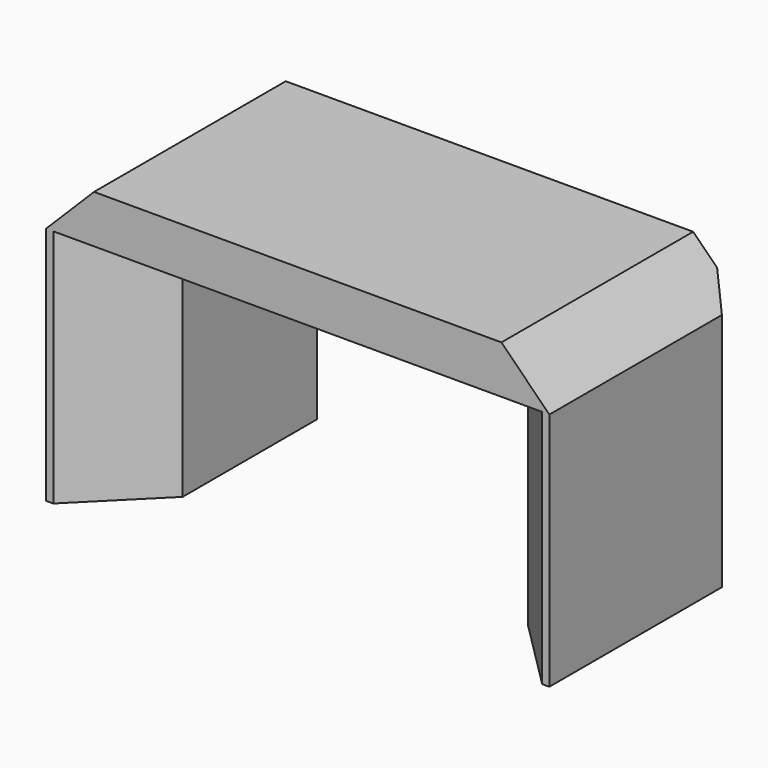
from build123d import *

# Parameters (mm, degrees)
CYLINDER1709_R     = 1.5
CYLINDER1709_DEPTH = 60
CYLINDER1710_R     = 1.5
CYLINDER1710_DEPTH = 60
CYLINDER1702_R     = 1.5
CYLINDER1702_DEPTH = 60
CYLINDER1706_R     = 1.5
CYLINDER1706_DEPTH = 60
CYLINDER1703_R     = 2.5
CYLINDER1703_DEPTH = 48
BOX666_W           = 28.8
BOX666_H           = 34.21
BOX666_DEPTH       = 20
BOX665_W           = 42
BOX665_H           = 20
BOX665_DEPTH       = 24
CHAMFER053_SIZE    = 6
CHAMFER054_SIZE    = 4
CHAMFER056_SIZE    = 2


with BuildPart() as obj1:
    # Cylinder1709 → Cylinder1709 (new body)
    with BuildSketch(Plane(origin=(18, 85, -57), x_dir=(1, 0, 0), z_dir=(0, 0, 1))):
        Circle(CYLINDER1709_R)
    extrude(amount=CYLINDER1709_DEPTH)


with BuildPart() as obj2:
    # Cylinder1710 → Cylinder1710 (new body)
    with BuildSketch(Plane(origin=(-18, 85, -57), x_dir=(1, 0, 0), z_dir=(0, 0, 1))):
        Circle(CYLINDER1710_R)
    extrude(amount=CYLINDER1710_DEPTH)


with BuildPart() as obj3:
    # Cylinder1702 → Cylinder1702 (new body)
    with BuildSketch(Plane(origin=(-18, 95, -57), x_dir=(1, 0, 0), z_dir=(0, 0, 1))):
        Circle(CYLINDER1702_R)
    extrude(amount=CYLINDER1702_DEPTH)


with BuildPart() as compound850:
    # Cylinder1706 → Cylinder1706 (new body)
    with BuildSketch(Plane(origin=(18, 95, -57), x_dir=(1, 0, 0), z_dir=(0, 0, 1))):
        Circle(CYLINDER1706_R)
    extrude(amount=CYLINDER1706_DEPTH)

    # Compound850: union obj1, obj2, obj3
    add(obj1.part)
    add(obj2.part)
    add(obj3.part)


with BuildPart() as compound850_1:
    # Compound850 placement: moved
    add(compound850.part.moved(Location((0, 0, -16))))


with BuildPart() as obj4:
    # Cylinder1703 → Cylinder1703 (new body)
    with BuildSketch(Plane(origin=(0, 90, -55), x_dir=(1, 0, 0), z_dir=(0, 0, 1))):
        Circle(CYLINDER1703_R)
    extrude(amount=CYLINDER1703_DEPTH)


with BuildPart() as compound846:
    # Box666 → Box666 (new body)
    with BuildSketch(Plane(origin=(-14.4, -15.34, 34), x_dir=(1, 0, 0), z_dir=(0, 0, 1))):
        with Locations((14.4, 17.105)):
            Rectangle(BOX666_W, BOX666_H)
    extrude(amount=BOX666_DEPTH)


with BuildPart() as compound846_1:
    # Compound846 placement: moved
    add(compound846.part.moved(Location((0, 90, -83))))


with BuildPart() as chamfer056:
    # Box665 → Box665 (new body)
    with BuildSketch(Plane(origin=(-21, 80, -49), x_dir=(1, 0, 0), z_dir=(0, 0, 1))):
        with Locations((21, 10)):
            Rectangle(BOX665_W, BOX665_H)
    extrude(amount=BOX665_DEPTH)

    # Cut354: cut Compound846
    add(compound846_1.part, mode=Mode.SUBTRACT)


with BuildPart() as chamfer056_1:
    # Cut354 placement: moved
    add(chamfer056.part.moved(Location((0, 0, 21))))

    # Cut352: cut obj4
    add(obj4.part, mode=Mode.SUBTRACT)

    # Chamfer053
    chamfer053_edges = [chamfer056_1.edges().sort_by_distance(p)[0] for p in [
        (-14.4, 80, -18),
        (14.4, 80, -18),
    ]]
    chamfer(chamfer053_edges, length=CHAMFER053_SIZE)

    # Cut348: cut Compound850
    add(compound850_1.part, mode=Mode.SUBTRACT)

    # Chamfer054
    chamfer054_edges = [chamfer056_1.edges().sort_by_distance(p)[0] for p in [
        (-21, 90, -4),
        (21, 90, -4),
    ]]
    chamfer(chamfer054_edges, length=CHAMFER054_SIZE)

    # Chamfer056
    chamfer056_edges = [chamfer056_1.edges().sort_by_distance(p)[0] for p in [
        (-21, 100, -18),
        (21, 100, -18),
    ]]
    chamfer(chamfer056_edges, length=CHAMFER056_SIZE)


solid = chamfer056_1.part
